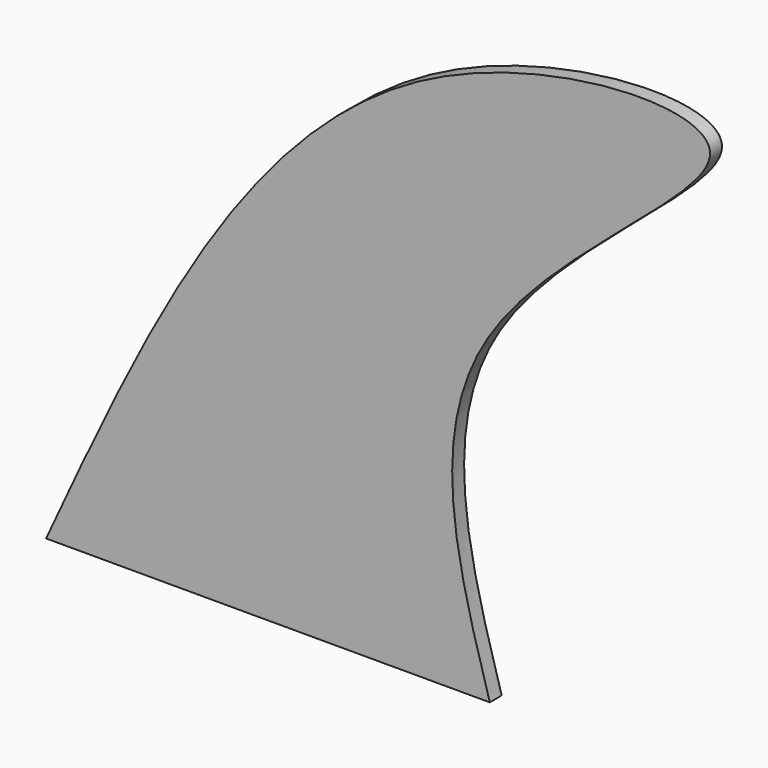
from build123d import *

# Parameters (mm, degrees)
F1_DEPTH = 5.08


with BuildPart() as f1:
    # F0 (on Front) → F1 (new body)
    with BuildSketch(Plane.XZ):
        with BuildLine():
            add(Edge.make_bspline(
                [(76.1078447104, -75.4973441362), (65.0019127297, -37.6763174414), (42.8199643432, 37.8638063977), (205.3652686479, 130.2017650659), (15.8265392289, 122.4527602739), (-41.0065591137, -1.0116344941), (-75.2938389778, -75.4973441362)],
                knots=[0, 0, 0, 0, 0.2297127313, 0.4588063876, 0.6734992661, 1, 1, 1, 1], degree=3))
            Line((-75.2938389778, -75.4973441362), (76.1078447104, -75.4973441362))
        make_face()
    extrude(amount=F1_DEPTH)


solid = f1.part
